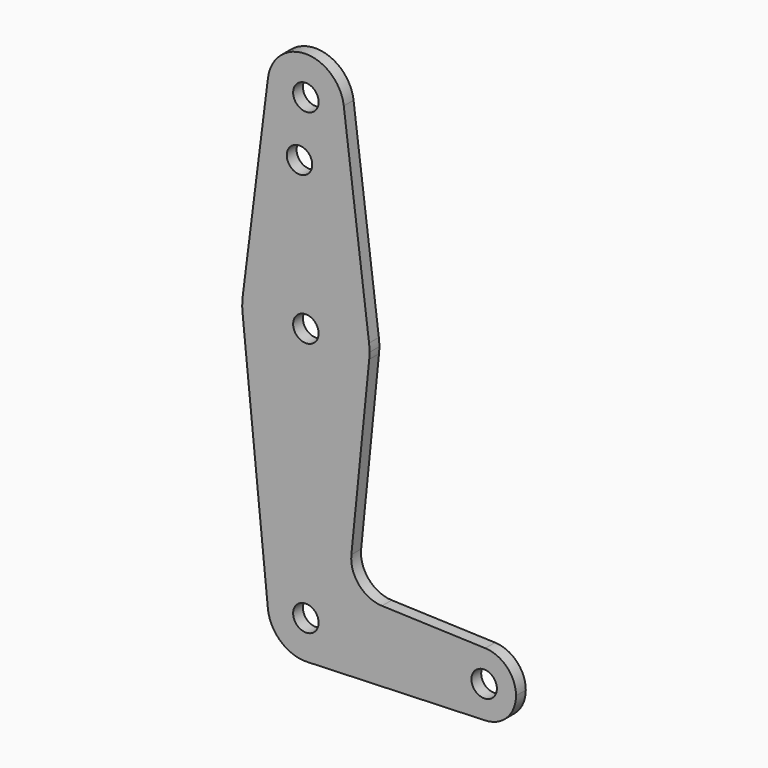
from build123d import *

# Parameters (mm, degrees)
F0_R     = 3.175
F1_DEPTH = 3.048


with BuildPart() as f1:
    # F0 (on Front) → F1 (new body)
    with BuildSketch(Plane.XZ):
        with BuildLine():
            ThreePointArc((-44.32972, -3.274808), (-44.270052, -2.482054), (-44.250146, -1.687308))
            ThreePointArc((-44.250146, -1.687308), (-44.281305, -0.693169), (-44.374658, 0.297067))
            ThreePointArc((-44.374658, 0.297067), (-60.125146, 14.187692), (-75.875634, 0.297067))
            ThreePointArc((-75.875634, 0.297067), (-75.99889, -1.487602), (-75.920572, -3.274808))
            ThreePointArc((-75.920572, -3.274808), (-60.125146, -17.562308), (-44.32972, -3.274808))
        make_face()
        with Locations((-60.125146, -1.687308)):
            Circle(F0_R, mode=Mode.SUBTRACT)
        with BuildLine():
            ThreePointArc((-75.875634, 0.297067), (-60.125146, 14.187692), (-44.374658, 0.297067))
            Line((-44.374658, 0.297067), (-50.674853, 50.303317))
            ThreePointArc((-50.674853, 50.303317), (-50.618841, 49.709175), (-50.600146, 49.112692))
            ThreePointArc((-50.600146, 49.112692), (-60.721629, 39.606387), (-69.575439, 50.303317))
            Line((-69.575439, 50.303317), (-75.875634, 0.297067))
        make_face()
        with Locations((-61.712646, 34.837892)):
            Circle(F0_R, mode=Mode.SUBTRACT)
        with BuildLine():
            Line((-48.783959, -47.593926), (-44.32972, -3.274808))
            ThreePointArc((-44.32972, -3.274808), (-60.125146, -17.562308), (-75.920572, -3.274808))
            Line((-75.920572, -3.274808), (-69.602401, -66.139808))
            ThreePointArc((-69.602401, -66.139808), (-60.601994, -55.674251), (-50.600146, -65.187308))
            ThreePointArc((-50.600146, -65.187308), (-53.270738, -71.801135), (-59.784967, -74.706231))
            Line((-59.784967, -74.706231), (-15.391664, -73.119744))
            ThreePointArc((-15.391664, -73.119744), (-23.612646, -65.187308), (-15.391664, -57.254872))
            Line((-15.391664, -57.254872), (-41.157546, -56.334074))
            ThreePointArc((-41.157546, -56.334074), (-46.863946, -53.615949), (-48.783959, -47.593926))
        make_face()
        with BuildLine():
            ThreePointArc((-50.600146, 49.112692), (-50.618841, 49.709175), (-50.674853, 50.303317))
            ThreePointArc((-50.674853, 50.303317), (-60.125146, 58.637692), (-69.575439, 50.303317))
            ThreePointArc((-69.575439, 50.303317), (-60.721629, 39.606387), (-50.600146, 49.112692))
        make_face()
        with Locations((-60.125146, 49.112692)):
            Circle(F0_R, mode=Mode.SUBTRACT)
        with BuildLine():
            ThreePointArc((-50.600146, -65.187308), (-60.601994, -55.674251), (-69.602401, -66.139808))
            ThreePointArc((-69.602401, -66.139808), (-66.387529, -72.364228), (-59.784967, -74.706231))
            ThreePointArc((-59.784967, -74.706231), (-53.270738, -71.801135), (-50.600146, -65.187308))
        make_face()
        with Locations((-60.125146, -65.187308)):
            Circle(F0_R, mode=Mode.SUBTRACT)
        with BuildLine():
            ThreePointArc((-7.737646, -65.187308), (-9.963139, -59.675785), (-15.391664, -57.254872))
            ThreePointArc((-15.391664, -57.254872), (-23.612646, -65.187308), (-15.391664, -73.119744))
            ThreePointArc((-15.391664, -73.119744), (-9.963139, -70.698831), (-7.737646, -65.187308))
        make_face()
        with Locations((-15.675146, -65.187308)):
            Circle(F0_R, mode=Mode.SUBTRACT)
    extrude(amount=F1_DEPTH)


solid = f1.part
